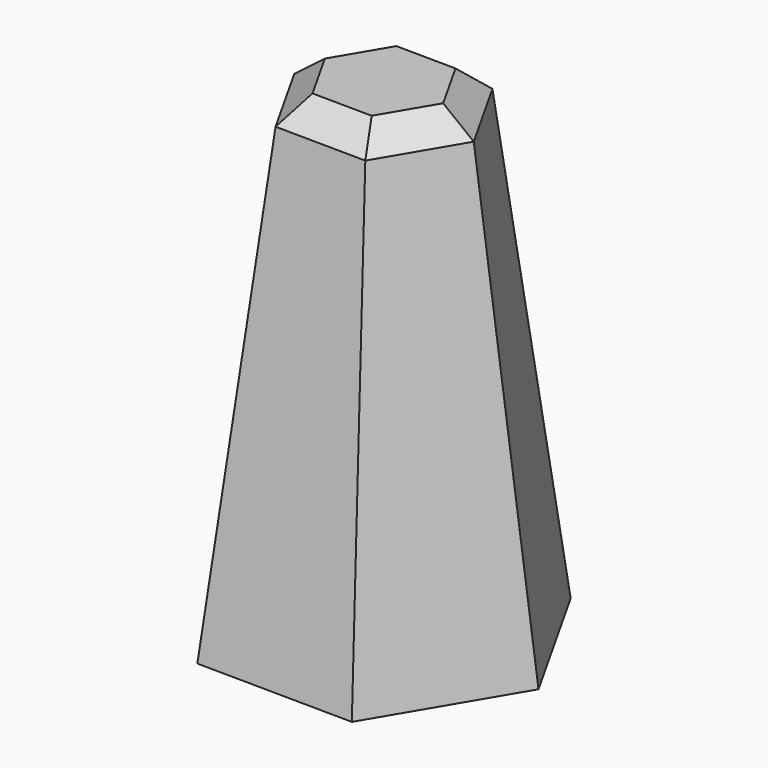
from build123d import *

# Parameters (mm, degrees)
F1_DEPTH = 20.3326418996
F1_TAPER = 7
F2_SIZE  = 1


with BuildPart() as f1:
    # F0 (on Top) → F1 (new body)
    with BuildSketch(Plane.XY):
        Polygon((3.2104404383, -5.701944282), (6.5432488184, -0.0706491641), (3.3328083801, 5.6312951179), (-3.2104404383, 5.701944282), (-6.5432488184, 0.0706491641), (-3.3328083801, -5.6312951179), align=None)
    extrude(amount=F1_DEPTH, taper=F1_TAPER)

    # F2
    f2_edges = [f1.edges().sort_by_distance(p)[0] for p in [
        (2.762615, 1.555471, 20.332642),
        (-2.762615, -1.555471, 20.332642),
        (0.03423, 3.170231, 20.332642),
        (-2.728385, 1.614759, 20.332642),
        (-0.03423, -3.170231, 20.332642),
        (2.728385, -1.614759, 20.332642),
    ]]
    chamfer(f2_edges, length=F2_SIZE)


solid = f1.part
